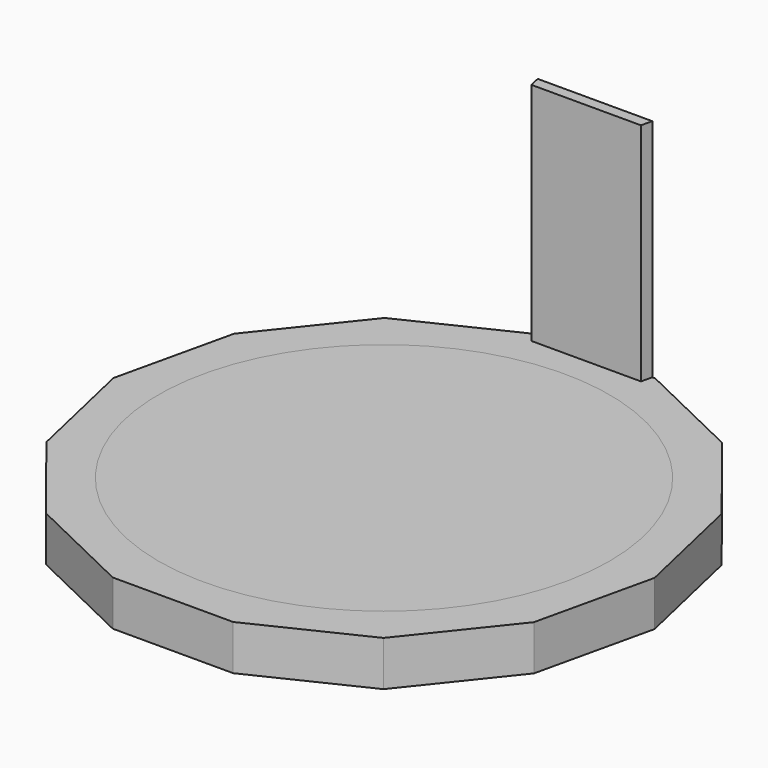
from build123d import *

# Parameters (mm, degrees)
F0_R     = 127
F1_DEPTH = 25.4
F2_DEPTH = 152.4
F3_DEPTH = 25.4


with BuildPart() as f1:
    # F0 (on Top) → F1 (new body)
    with BuildSketch(Plane.XY):
        Polygon((30.828981, 142.388222), (32.241989, 148.579014), (-32.283865, 148.579014), (-30.870857, 142.388222), align=None)
        Polygon((95.019846, -119.151118), (137.307655, -66.123882), (152.4, 0), (137.307655, 66.123882), (95.019846, 119.151118), (35.416989, 147.854341), (34.003981, 141.663549), (91.060686, 114.186488), (131.586503, 63.36872), (146.05, 0), (131.586503, -63.36872), (91.060686, -114.186488), (32.499182, -142.388222), (-32.499182, -142.388222), (-91.060686, -114.186488), (-131.586503, -63.36872), (-146.05, 0), (-131.586503, 63.36872), (-91.060686, 114.186488), (-33.966253, 141.681718), (-35.379261, 147.87251), (-95.019846, 119.151118), (-137.307655, 66.123882), (-152.4, 0), (-137.307655, -66.123882), (-95.019846, -119.151118), (-33.91219, -148.579014), (33.91219, -148.579014), align=None)
        Polygon((91.060686, 114.186488), (34.003981, 141.663549), (32.499182, 142.388222), (30.828981, 142.388222), (-30.870857, 142.388222), (-32.499182, 142.388222), (-33.966253, 141.681718), (-91.060686, 114.186488), (-131.586503, 63.36872), (-146.05, 0), (-131.586503, -63.36872), (-91.060686, -114.186488), (-32.499182, -142.388222), (32.499182, -142.388222), (91.060686, -114.186488), (131.586503, -63.36872), (146.05, 0), (131.586503, 63.36872), align=None)
        Circle(F0_R, mode=Mode.SUBTRACT)
        Polygon((34.003981, 141.663549), (35.416989, 147.854341), (33.91219, 148.579014), (32.241989, 148.579014), (30.828981, 142.388222), (32.499182, 142.388222), align=None)
        Polygon((-30.870857, 142.388222), (-32.283865, 148.579014), (-33.91219, 148.579014), (-35.379261, 147.87251), (-33.966253, 141.681718), (-32.499182, 142.388222), align=None)
        Circle(F0_R)
    extrude(amount=F1_DEPTH)


with BuildPart() as f2:
    # F0 (on Top) → F2 (new body)
    with BuildSketch(Plane.XY):
        Polygon((30.828981, 142.388222), (32.241989, 148.579014), (-32.283865, 148.579014), (-30.870857, 142.388222), align=None)
    extrude(amount=F2_DEPTH)


with BuildPart() as f3:
    # F0 (on Top) → F3 (new body)
    with BuildSketch(Plane.XY):
        Polygon((91.060686, 114.186488), (34.003981, 141.663549), (32.499182, 142.388222), (30.828981, 142.388222), (-30.870857, 142.388222), (-32.499182, 142.388222), (-33.966253, 141.681718), (-91.060686, 114.186488), (-131.586503, 63.36872), (-146.05, 0), (-131.586503, -63.36872), (-91.060686, -114.186488), (-32.499182, -142.388222), (32.499182, -142.388222), (91.060686, -114.186488), (131.586503, -63.36872), (146.05, 0), (131.586503, 63.36872), align=None)
        Circle(F0_R, mode=Mode.SUBTRACT)
        Polygon((95.019846, -119.151118), (137.307655, -66.123882), (152.4, 0), (137.307655, 66.123882), (95.019846, 119.151118), (35.416989, 147.854341), (34.003981, 141.663549), (91.060686, 114.186488), (131.586503, 63.36872), (146.05, 0), (131.586503, -63.36872), (91.060686, -114.186488), (32.499182, -142.388222), (-32.499182, -142.388222), (-91.060686, -114.186488), (-131.586503, -63.36872), (-146.05, 0), (-131.586503, 63.36872), (-91.060686, 114.186488), (-33.966253, 141.681718), (-35.379261, 147.87251), (-95.019846, 119.151118), (-137.307655, 66.123882), (-152.4, 0), (-137.307655, -66.123882), (-95.019846, -119.151118), (-33.91219, -148.579014), (33.91219, -148.579014), align=None)
        Polygon((30.828981, 142.388222), (32.241989, 148.579014), (-32.283865, 148.579014), (-30.870857, 142.388222), align=None)
        Polygon((34.003981, 141.663549), (35.416989, 147.854341), (33.91219, 148.579014), (32.241989, 148.579014), (30.828981, 142.388222), (32.499182, 142.388222), align=None)
        Polygon((-30.870857, 142.388222), (-32.283865, 148.579014), (-33.91219, 148.579014), (-35.379261, 147.87251), (-33.966253, 141.681718), (-32.499182, 142.388222), align=None)
    extrude(amount=F3_DEPTH)


solid = Compound([f1.part, f2.part, f3.part])
